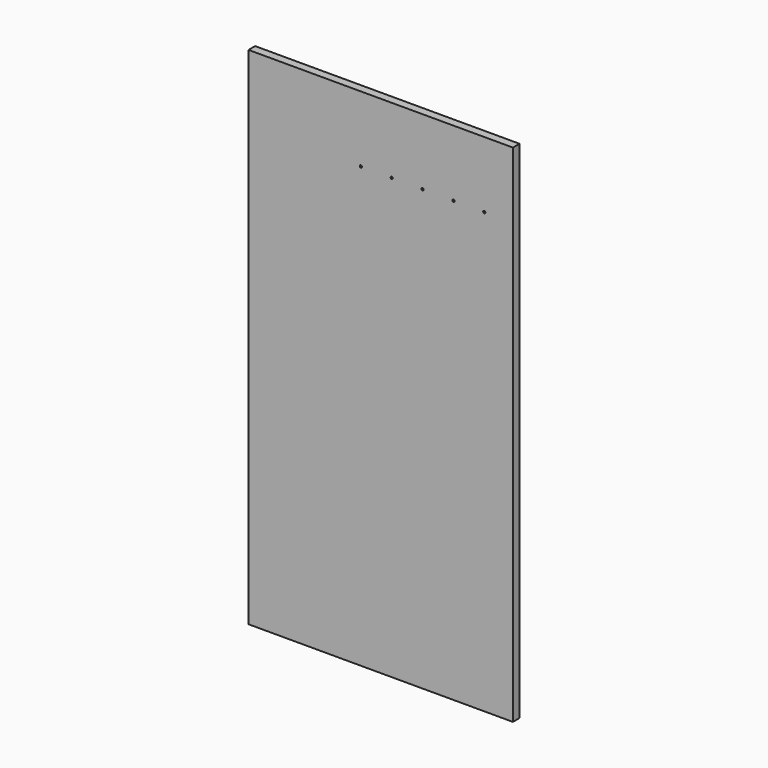
from build123d import *

# Parameters (mm, degrees)
F0_W     = 1524
F0_H     = 47.625
F1_DEPTH = 2914.65
F2_R     = 6.35
F3_DEPTH = 47.626
F4_W     = 50.8
F4_H     = 19.05
F5_DEPTH = 25.4


with BuildPart() as f1:
    # F0 (on Top) → F1 (new body)
    with BuildSketch(Plane.XY):
        Rectangle(F0_W, F0_H)
    extrude(amount=F1_DEPTH)

    # F2 (on face) → F3 (cut, through all)
    with BuildSketch(Plane.XZ.offset(23.8125)):
        with Locations((-114.3, 2533.65)):
            Circle(F2_R)
        with Locations((63.5, 2533.65)):
            Circle(F2_R)
        with Locations((241.3, 2533.65)):
            Circle(F2_R)
        with Locations((419.1, 2533.65)):
            Circle(F2_R)
        with Locations((596.9, 2533.65)):
            Circle(F2_R)
    extrude(amount=-F3_DEPTH, mode=Mode.SUBTRACT)

    # F4 (on face) → F5 (join)
    with BuildSketch(Plane(origin=(0, 23.8125, 0), x_dir=(-1, 0, 0), z_dir=(0, 1, 0))):
        with Locations((-330.2, 2869.565)):
            Rectangle(F4_W, F4_H)
    extrude(amount=F5_DEPTH)


solid = f1.part
